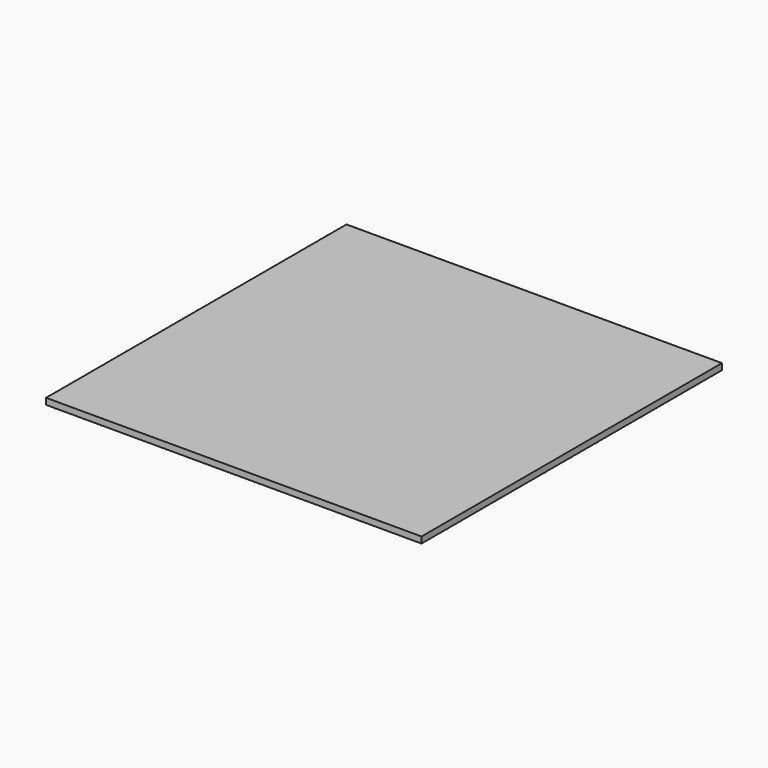
from build123d import *

# Parameters (mm, degrees)
SKETCH_W  = 30
SKETCH_H  = 30
PAD_DEPTH = 0.5


with BuildPart() as part:
    # Sketch → Pad (new body)
    with BuildSketch(Plane.XY):
        with Locations((15, 15)):
            Rectangle(SKETCH_W, SKETCH_H)
    extrude(amount=PAD_DEPTH)


solid = part.part
